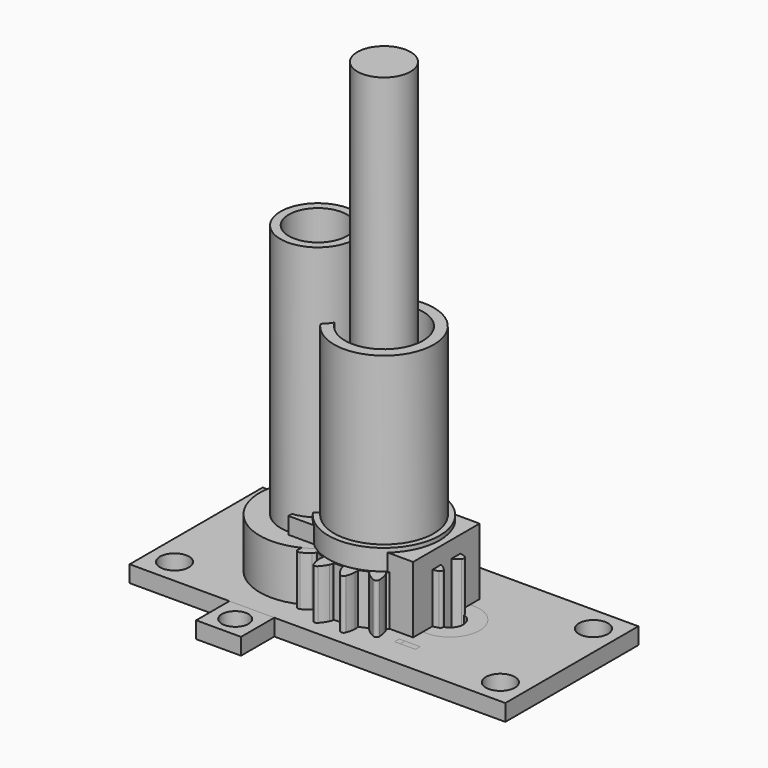
from build123d import *

# Parameters (mm, degrees)
SKETCH001_R     = 6.2
SKETCH001_R_2   = 1.6
SKETCH001_R_3   = 1.75
PAD001_DEPTH    = 2
PAD008_DEPTH    = 7
PAD005_DEPTH    = 8
SKETCH009_R     = 5
PAD006_DEPTH    = 2
SKETCH010_R     = 1.52
PAD007_DEPTH    = 3
PAD010_DEPTH    = 7
SKETCH014_W     = 15
SKETCH014_H     = 10
PAD009_DEPTH    = 10
SKETCH015_W     = 15
SKETCH015_H     = 15
PAD011_DEPTH    = 2
SKETCH019_R     = 4.7
PAD015_DEPTH    = 100
PAD012_DEPTH    = 8
SKETCH017_R     = 6.7
PAD013_DEPTH    = 2.5
SKETCH018_R     = 6
PAD014_DEPTH    = 20
PAD017_DEPTH    = 7
SKETCH_R        = 3.2
PAD_DEPTH       = 58.5
SKETCH020_R     = 5
PAD016_DEPTH    = 8
SKETCH002_R     = 3.55
SKETCH002_W     = 2.5
SKETCH002_H     = 0.7
PAD002_DEPTH    = 2
SKETCH022_R     = 7
PAD018_DEPTH    = 6
SKETCH023_R     = 4.5
PAD019_DEPTH    = 30.6
SKETCH024_R     = 3.5
POCKET_DEPTH    = 38.601
SKETCH025_R     = 1.75
POCKET001_DEPTH = 2.001
SKETCH026_R     = 3.55
SKETCH026_R_2   = 1.75
SKETCH026_W     = 2.5
SKETCH026_H     = 0.7
PAD020_DEPTH    = 2


with BuildPart() as pad001:
    # Sketch001 → Pad001 (new body)
    with BuildSketch(Plane.XY):
        Polygon((-22.6, 10), (-10.6, 10), (-10.6, 15), (-5.2, 15), (-5.2, 10), (22.6, 10), (22.6, -10), (-5.2, -10), (-5.2, -15), (-10.6, -15), (-10.6, -10), (-22.6, -10), align=None)
        with Locations((-7.95, 0)):
            Circle(SKETCH001_R, mode=Mode.SUBTRACT)
        with Locations((7.95, 0)):
            Circle(SKETCH001_R_2, mode=Mode.SUBTRACT)
        with Locations((-7.9, -12.5)):
            Circle(SKETCH001_R_2, mode=Mode.SUBTRACT)
        with Locations((-7.9, 12.5)):
            Circle(SKETCH001_R_2, mode=Mode.SUBTRACT)
        with Locations((-19.6, 7)):
            Circle(SKETCH001_R_3, mode=Mode.SUBTRACT)
        with Locations((19.6, 7)):
            Circle(SKETCH001_R_3, mode=Mode.SUBTRACT)
        with Locations((19.6, -7)):
            Circle(SKETCH001_R_3, mode=Mode.SUBTRACT)
        with Locations((-19.6, -7)):
            Circle(SKETCH001_R_3, mode=Mode.SUBTRACT)
    extrude(amount=PAD001_DEPTH)


with BuildPart() as pad008:
    # Sketch012 → Pad008 (new body)
    with BuildSketch(Plane.XY):
        with BuildLine():
            ThreePointArc((2.771281, -1.6), (0, 3.2), (-2.771281, -1.6))
            Line((-2.771281, -1.6), (2.771281, -1.6))
        make_face()
    extrude(amount=PAD008_DEPTH)


with BuildPart() as cut:
    # InvoluteGear → Pad005 (new body)
    with BuildSketch(Plane.XY):
        with BuildLine():
            add(Edge.make_bspline(
                [(8.264949, -1.328908), (7.892856, -0.98938), (7.56956, -0.801595), (7.338386, -0.698739)],
                knots=[0, 0, 0, 0, 1, 1, 1, 1], degree=3))
            add(Edge.make_bspline(
                [(7.338386, -0.698739), (7.14461, -0.613452), (7.023345, -0.589657), (6.982665, -0.583513)],
                knots=[0, 0, 0, 0, 1, 1, 1, 1], degree=3))
            Line((6.982665, -0.583513), (6.858154, -0.572405))
            ThreePointArc((6.858154, -0.572405), (6.834308, 0), (6.858154, 0.572405))
            Line((6.858154, 0.572405), (6.982665, 0.583513))
            add(Edge.make_bspline(
                [(6.982665, 0.583513), (7.023345, 0.589657), (7.14461, 0.613452), (7.338386, 0.698739)],
                knots=[0, 0, 0, 0, 1, 1, 1, 1], degree=3))
            add(Edge.make_bspline(
                [(7.338386, 0.698739), (7.56956, 0.801595), (7.892856, 0.98938), (8.264949, 1.328908)],
                knots=[0, 0, 0, 0, 1, 1, 1, 1], degree=3))
            ThreePointArc((8.264949, 1.328908), (8.388191, 1.668515), (8.144368, 1.935109))
            add(Edge.make_bspline(
                [(8.144368, 1.935109), (7.670668, 2.106397), (7.300119, 2.156168), (7.04718, 2.162728)],
                knots=[0, 0, 0, 0, 1, 1, 1, 1], degree=3))
            add(Edge.make_bspline(
                [(7.04718, 2.162728), (6.835517, 2.167368), (6.714376, 2.142945), (6.674442, 2.133054)],
                knots=[0, 0, 0, 0, 1, 1, 1, 1], degree=3))
            Line((6.674442, 2.133054), (6.555158, 2.095669))
            ThreePointArc((6.555158, 2.095669), (6.314077, 2.615376), (6.117058, 3.153335))
            Line((6.117058, 3.153335), (6.22784, 3.211246))
            add(Edge.make_bspline(
                [(6.22784, 3.211246), (6.263072, 3.23249), (6.366001, 3.30088), (6.512388, 3.453829)],
                knots=[0, 0, 0, 0, 1, 1, 1, 1], degree=3))
            add(Edge.make_bspline(
                [(6.512388, 3.453829), (6.686604, 3.637322), (6.913429, 3.934534), (7.127266, 4.39061)],
                knots=[0, 0, 0, 0, 1, 1, 1, 1], degree=3))
            ThreePointArc((7.127266, 4.39061), (7.111165, 4.751528), (6.783881, 4.904522))
            add(Edge.make_bspline(
                [(6.783881, 4.904522), (6.28069, 4.881494), (5.9193, 4.785674), (5.683105, 4.694939)],
                knots=[0, 0, 0, 0, 1, 1, 1, 1], degree=3))
            add(Edge.make_bspline(
                [(5.683105, 4.694939), (5.485778, 4.618226), (5.383205, 4.549304), (5.350096, 4.524884)],
                knots=[0, 0, 0, 0, 1, 1, 1, 1], degree=3))
            Line((5.350096, 4.524884), (5.254199, 4.444696))
            ThreePointArc((5.254199, 4.444696), (4.832586, 4.832586), (4.444696, 5.254199))
            Line((4.444696, 5.254199), (4.524884, 5.350096))
            add(Edge.make_bspline(
                [(4.524884, 5.350096), (4.549304, 5.383205), (4.618226, 5.485778), (4.694939, 5.683105)],
                knots=[0, 0, 0, 0, 1, 1, 1, 1], degree=3))
            add(Edge.make_bspline(
                [(4.694939, 5.683105), (4.785674, 5.9193), (4.881494, 6.28069), (4.904522, 6.783881)],
                knots=[0, 0, 0, 0, 1, 1, 1, 1], degree=3))
            ThreePointArc((4.904522, 6.783881), (4.751528, 7.111165), (4.39061, 7.127266))
            add(Edge.make_bspline(
                [(4.39061, 7.127266), (3.934534, 6.913429), (3.637322, 6.686604), (3.453829, 6.512388)],
                knots=[0, 0, 0, 0, 1, 1, 1, 1], degree=3))
            add(Edge.make_bspline(
                [(3.453829, 6.512388), (3.30088, 6.366001), (3.23249, 6.263072), (3.211246, 6.22784)],
                knots=[0, 0, 0, 0, 1, 1, 1, 1], degree=3))
            Line((3.211246, 6.22784), (3.153335, 6.117058))
            ThreePointArc((3.153335, 6.117058), (2.615376, 6.314077), (2.095669, 6.555158))
            Line((2.095669, 6.555158), (2.133054, 6.674442))
            add(Edge.make_bspline(
                [(2.133054, 6.674442), (2.142945, 6.714376), (2.167368, 6.835517), (2.162728, 7.04718)],
                knots=[0, 0, 0, 0, 1, 1, 1, 1], degree=3))
            add(Edge.make_bspline(
                [(2.162728, 7.04718), (2.156168, 7.300119), (2.106397, 7.670668), (1.935109, 8.144368)],
                knots=[0, 0, 0, 0, 1, 1, 1, 1], degree=3))
            ThreePointArc((1.935109, 8.144368), (1.668515, 8.388191), (1.328908, 8.264949))
            add(Edge.make_bspline(
                [(1.328908, 8.264949), (0.98938, 7.892856), (0.801595, 7.56956), (0.698739, 7.338386)],
                knots=[0, 0, 0, 0, 1, 1, 1, 1], degree=3))
            add(Edge.make_bspline(
                [(0.698739, 7.338386), (0.613452, 7.14461), (0.589657, 7.023345), (0.583513, 6.982665)],
                knots=[0, 0, 0, 0, 1, 1, 1, 1], degree=3))
            Line((0.583513, 6.982665), (0.572405, 6.858154))
            ThreePointArc((0.572405, 6.858154), (0, 6.834308), (-0.572405, 6.858154))
            Line((-0.572405, 6.858154), (-0.583513, 6.982665))
            add(Edge.make_bspline(
                [(-0.583513, 6.982665), (-0.589657, 7.023345), (-0.613452, 7.14461), (-0.698739, 7.338386)],
                knots=[0, 0, 0, 0, 1, 1, 1, 1], degree=3))
            add(Edge.make_bspline(
                [(-0.698739, 7.338386), (-0.801595, 7.56956), (-0.98938, 7.892856), (-1.328908, 8.264949)],
                knots=[0, 0, 0, 0, 1, 1, 1, 1], degree=3))
            ThreePointArc((-1.328908, 8.264949), (-1.668515, 8.388191), (-1.935109, 8.144368))
            add(Edge.make_bspline(
                [(-1.935109, 8.144368), (-2.106397, 7.670668), (-2.156168, 7.300119), (-2.162728, 7.04718)],
                knots=[0, 0, 0, 0, 1, 1, 1, 1], degree=3))
            add(Edge.make_bspline(
                [(-2.162728, 7.04718), (-2.167368, 6.835517), (-2.142945, 6.714376), (-2.133054, 6.674442)],
                knots=[0, 0, 0, 0, 1, 1, 1, 1], degree=3))
            Line((-2.133054, 6.674442), (-2.095669, 6.555158))
            ThreePointArc((-2.095669, 6.555158), (-2.615376, 6.314077), (-3.153335, 6.117058))
            Line((-3.153335, 6.117058), (-3.211246, 6.22784))
            add(Edge.make_bspline(
                [(-3.211246, 6.22784), (-3.23249, 6.263072), (-3.30088, 6.366001), (-3.453829, 6.512388)],
                knots=[0, 0, 0, 0, 1, 1, 1, 1], degree=3))
            add(Edge.make_bspline(
                [(-3.453829, 6.512388), (-3.637322, 6.686604), (-3.934534, 6.913429), (-4.39061, 7.127266)],
                knots=[0, 0, 0, 0, 1, 1, 1, 1], degree=3))
            ThreePointArc((-4.39061, 7.127266), (-4.751528, 7.111165), (-4.904522, 6.783881))
            add(Edge.make_bspline(
                [(-4.904522, 6.783881), (-4.881494, 6.28069), (-4.785674, 5.9193), (-4.694939, 5.683105)],
                knots=[0, 0, 0, 0, 1, 1, 1, 1], degree=3))
            add(Edge.make_bspline(
                [(-4.694939, 5.683105), (-4.618226, 5.485778), (-4.549304, 5.383205), (-4.524884, 5.350096)],
                knots=[0, 0, 0, 0, 1, 1, 1, 1], degree=3))
            Line((-4.524884, 5.350096), (-4.444696, 5.254199))
            ThreePointArc((-4.444696, 5.254199), (-4.832586, 4.832586), (-5.254199, 4.444696))
            Line((-5.254199, 4.444696), (-5.350096, 4.524884))
            add(Edge.make_bspline(
                [(-5.350096, 4.524884), (-5.383205, 4.549304), (-5.485778, 4.618226), (-5.683105, 4.694939)],
                knots=[0, 0, 0, 0, 1, 1, 1, 1], degree=3))
            add(Edge.make_bspline(
                [(-5.683105, 4.694939), (-5.9193, 4.785674), (-6.28069, 4.881494), (-6.783881, 4.904522)],
                knots=[0, 0, 0, 0, 1, 1, 1, 1], degree=3))
            ThreePointArc((-6.783881, 4.904522), (-7.111165, 4.751528), (-7.127266, 4.39061))
            add(Edge.make_bspline(
                [(-7.127266, 4.39061), (-6.913429, 3.934534), (-6.686604, 3.637322), (-6.512388, 3.453829)],
                knots=[0, 0, 0, 0, 1, 1, 1, 1], degree=3))
            add(Edge.make_bspline(
                [(-6.512388, 3.453829), (-6.366001, 3.30088), (-6.263072, 3.23249), (-6.22784, 3.211246)],
                knots=[0, 0, 0, 0, 1, 1, 1, 1], degree=3))
            Line((-6.22784, 3.211246), (-6.117058, 3.153335))
            ThreePointArc((-6.117058, 3.153335), (-6.314077, 2.615376), (-6.555158, 2.095669))
            Line((-6.555158, 2.095669), (-6.674442, 2.133054))
            add(Edge.make_bspline(
                [(-6.674442, 2.133054), (-6.714376, 2.142945), (-6.835517, 2.167368), (-7.04718, 2.162728)],
                knots=[0, 0, 0, 0, 1, 1, 1, 1], degree=3))
            add(Edge.make_bspline(
                [(-7.04718, 2.162728), (-7.300119, 2.156168), (-7.670668, 2.106397), (-8.144368, 1.935109)],
                knots=[0, 0, 0, 0, 1, 1, 1, 1], degree=3))
            ThreePointArc((-8.144368, 1.935109), (-8.388191, 1.668515), (-8.264949, 1.328908))
            add(Edge.make_bspline(
                [(-8.264949, 1.328908), (-7.892856, 0.98938), (-7.56956, 0.801595), (-7.338386, 0.698739)],
                knots=[0, 0, 0, 0, 1, 1, 1, 1], degree=3))
            add(Edge.make_bspline(
                [(-7.338386, 0.698739), (-7.14461, 0.613452), (-7.023345, 0.589657), (-6.982665, 0.583513)],
                knots=[0, 0, 0, 0, 1, 1, 1, 1], degree=3))
            Line((-6.982665, 0.583513), (-6.858154, 0.572405))
            ThreePointArc((-6.858154, 0.572405), (-6.834308, 0), (-6.858154, -0.572405))
            Line((-6.858154, -0.572405), (-6.982665, -0.583513))
            add(Edge.make_bspline(
                [(-6.982665, -0.583513), (-7.023345, -0.589657), (-7.14461, -0.613452), (-7.338386, -0.698739)],
                knots=[0, 0, 0, 0, 1, 1, 1, 1], degree=3))
            add(Edge.make_bspline(
                [(-7.338386, -0.698739), (-7.56956, -0.801595), (-7.892856, -0.98938), (-8.264949, -1.328908)],
                knots=[0, 0, 0, 0, 1, 1, 1, 1], degree=3))
            ThreePointArc((-8.264949, -1.328908), (-8.388191, -1.668515), (-8.144368, -1.935109))
            add(Edge.make_bspline(
                [(-8.144368, -1.935109), (-7.670668, -2.106397), (-7.300119, -2.156168), (-7.04718, -2.162728)],
                knots=[0, 0, 0, 0, 1, 1, 1, 1], degree=3))
            add(Edge.make_bspline(
                [(-7.04718, -2.162728), (-6.835517, -2.167368), (-6.714376, -2.142945), (-6.674442, -2.133054)],
                knots=[0, 0, 0, 0, 1, 1, 1, 1], degree=3))
            Line((-6.674442, -2.133054), (-6.555158, -2.095669))
            ThreePointArc((-6.555158, -2.095669), (-6.314077, -2.615376), (-6.117058, -3.153335))
            Line((-6.117058, -3.153335), (-6.22784, -3.211246))
            add(Edge.make_bspline(
                [(-6.22784, -3.211246), (-6.263072, -3.23249), (-6.366001, -3.30088), (-6.512388, -3.453829)],
                knots=[0, 0, 0, 0, 1, 1, 1, 1], degree=3))
            add(Edge.make_bspline(
                [(-6.512388, -3.453829), (-6.686604, -3.637322), (-6.913429, -3.934534), (-7.127266, -4.39061)],
                knots=[0, 0, 0, 0, 1, 1, 1, 1], degree=3))
            ThreePointArc((-7.127266, -4.39061), (-7.111165, -4.751528), (-6.783881, -4.904522))
            add(Edge.make_bspline(
                [(-6.783881, -4.904522), (-6.28069, -4.881494), (-5.9193, -4.785674), (-5.683105, -4.694939)],
                knots=[0, 0, 0, 0, 1, 1, 1, 1], degree=3))
            add(Edge.make_bspline(
                [(-5.683105, -4.694939), (-5.485778, -4.618226), (-5.383205, -4.549304), (-5.350096, -4.524884)],
                knots=[0, 0, 0, 0, 1, 1, 1, 1], degree=3))
            Line((-5.350096, -4.524884), (-5.254199, -4.444696))
            ThreePointArc((-5.254199, -4.444696), (-4.832586, -4.832586), (-4.444696, -5.254199))
            Line((-4.444696, -5.254199), (-4.524884, -5.350096))
            add(Edge.make_bspline(
                [(-4.524884, -5.350096), (-4.549304, -5.383205), (-4.618226, -5.485778), (-4.694939, -5.683105)],
                knots=[0, 0, 0, 0, 1, 1, 1, 1], degree=3))
            add(Edge.make_bspline(
                [(-4.694939, -5.683105), (-4.785674, -5.9193), (-4.881494, -6.28069), (-4.904522, -6.783881)],
                knots=[0, 0, 0, 0, 1, 1, 1, 1], degree=3))
            ThreePointArc((-4.904522, -6.783881), (-4.751528, -7.111165), (-4.39061, -7.127266))
            add(Edge.make_bspline(
                [(-4.39061, -7.127266), (-3.934534, -6.913429), (-3.637322, -6.686604), (-3.453829, -6.512388)],
                knots=[0, 0, 0, 0, 1, 1, 1, 1], degree=3))
            add(Edge.make_bspline(
                [(-3.453829, -6.512388), (-3.30088, -6.366001), (-3.23249, -6.263072), (-3.211246, -6.22784)],
                knots=[0, 0, 0, 0, 1, 1, 1, 1], degree=3))
            Line((-3.211246, -6.22784), (-3.153335, -6.117058))
            ThreePointArc((-3.153335, -6.117058), (-2.615376, -6.314077), (-2.095669, -6.555158))
            Line((-2.095669, -6.555158), (-2.133054, -6.674442))
            add(Edge.make_bspline(
                [(-2.133054, -6.674442), (-2.142945, -6.714376), (-2.167368, -6.835517), (-2.162728, -7.04718)],
                knots=[0, 0, 0, 0, 1, 1, 1, 1], degree=3))
            add(Edge.make_bspline(
                [(-2.162728, -7.04718), (-2.156168, -7.300119), (-2.106397, -7.670668), (-1.935109, -8.144368)],
                knots=[0, 0, 0, 0, 1, 1, 1, 1], degree=3))
            ThreePointArc((-1.935109, -8.144368), (-1.668515, -8.388191), (-1.328908, -8.264949))
            add(Edge.make_bspline(
                [(-1.328908, -8.264949), (-0.98938, -7.892856), (-0.801595, -7.56956), (-0.698739, -7.338386)],
                knots=[0, 0, 0, 0, 1, 1, 1, 1], degree=3))
            add(Edge.make_bspline(
                [(-0.698739, -7.338386), (-0.613452, -7.14461), (-0.589657, -7.023345), (-0.583513, -6.982665)],
                knots=[0, 0, 0, 0, 1, 1, 1, 1], degree=3))
            Line((-0.583513, -6.982665), (-0.572405, -6.858154))
            ThreePointArc((-0.572405, -6.858154), (0, -6.834308), (0.572405, -6.858154))
            Line((0.572405, -6.858154), (0.583513, -6.982665))
            add(Edge.make_bspline(
                [(0.583513, -6.982665), (0.589657, -7.023345), (0.613452, -7.14461), (0.698739, -7.338386)],
                knots=[0, 0, 0, 0, 1, 1, 1, 1], degree=3))
            add(Edge.make_bspline(
                [(0.698739, -7.338386), (0.801595, -7.56956), (0.98938, -7.892856), (1.328908, -8.264949)],
                knots=[0, 0, 0, 0, 1, 1, 1, 1], degree=3))
            ThreePointArc((1.328908, -8.264949), (1.668515, -8.388191), (1.935109, -8.144368))
            add(Edge.make_bspline(
                [(1.935109, -8.144368), (2.106397, -7.670668), (2.156168, -7.300119), (2.162728, -7.04718)],
                knots=[0, 0, 0, 0, 1, 1, 1, 1], degree=3))
            add(Edge.make_bspline(
                [(2.162728, -7.04718), (2.167368, -6.835517), (2.142945, -6.714376), (2.133054, -6.674442)],
                knots=[0, 0, 0, 0, 1, 1, 1, 1], degree=3))
            Line((2.133054, -6.674442), (2.095669, -6.555158))
            ThreePointArc((2.095669, -6.555158), (2.615376, -6.314077), (3.153335, -6.117058))
            Line((3.153335, -6.117058), (3.211246, -6.22784))
            add(Edge.make_bspline(
                [(3.211246, -6.22784), (3.23249, -6.263072), (3.30088, -6.366001), (3.453829, -6.512388)],
                knots=[0, 0, 0, 0, 1, 1, 1, 1], degree=3))
            add(Edge.make_bspline(
                [(3.453829, -6.512388), (3.637322, -6.686604), (3.934534, -6.913429), (4.39061, -7.127266)],
                knots=[0, 0, 0, 0, 1, 1, 1, 1], degree=3))
            ThreePointArc((4.39061, -7.127266), (4.751528, -7.111165), (4.904522, -6.783881))
            add(Edge.make_bspline(
                [(4.904522, -6.783881), (4.881494, -6.28069), (4.785674, -5.9193), (4.694939, -5.683105)],
                knots=[0, 0, 0, 0, 1, 1, 1, 1], degree=3))
            add(Edge.make_bspline(
                [(4.694939, -5.683105), (4.618226, -5.485778), (4.549304, -5.383205), (4.524884, -5.350096)],
                knots=[0, 0, 0, 0, 1, 1, 1, 1], degree=3))
            Line((4.524884, -5.350096), (4.444696, -5.254199))
            ThreePointArc((4.444696, -5.254199), (4.832586, -4.832586), (5.254199, -4.444696))
            Line((5.254199, -4.444696), (5.350096, -4.524884))
            add(Edge.make_bspline(
                [(5.350096, -4.524884), (5.383205, -4.549304), (5.485778, -4.618226), (5.683105, -4.694939)],
                knots=[0, 0, 0, 0, 1, 1, 1, 1], degree=3))
            add(Edge.make_bspline(
                [(5.683105, -4.694939), (5.9193, -4.785674), (6.28069, -4.881494), (6.783881, -4.904522)],
                knots=[0, 0, 0, 0, 1, 1, 1, 1], degree=3))
            ThreePointArc((6.783881, -4.904522), (7.111165, -4.751528), (7.127266, -4.39061))
            add(Edge.make_bspline(
                [(7.127266, -4.39061), (6.913429, -3.934534), (6.686604, -3.637322), (6.512388, -3.453829)],
                knots=[0, 0, 0, 0, 1, 1, 1, 1], degree=3))
            add(Edge.make_bspline(
                [(6.512388, -3.453829), (6.366001, -3.30088), (6.263072, -3.23249), (6.22784, -3.211246)],
                knots=[0, 0, 0, 0, 1, 1, 1, 1], degree=3))
            Line((6.22784, -3.211246), (6.117058, -3.153335))
            ThreePointArc((6.117058, -3.153335), (6.314077, -2.615376), (6.555158, -2.095669))
            Line((6.555158, -2.095669), (6.674442, -2.133054))
            add(Edge.make_bspline(
                [(6.674442, -2.133054), (6.714376, -2.142945), (6.835517, -2.167368), (7.04718, -2.162728)],
                knots=[0, 0, 0, 0, 1, 1, 1, 1], degree=3))
            add(Edge.make_bspline(
                [(7.04718, -2.162728), (7.300119, -2.156168), (7.670668, -2.106397), (8.144368, -1.935109)],
                knots=[0, 0, 0, 0, 1, 1, 1, 1], degree=3))
            ThreePointArc((8.144368, -1.935109), (8.388191, -1.668515), (8.264949, -1.328908))
        make_face()
    extrude(amount=PAD005_DEPTH)

    # Sketch009 → Pad006 (new body)
    with BuildSketch(Plane.XY.offset(8)):
        Circle(SKETCH009_R)
    extrude(amount=PAD006_DEPTH)

    # Sketch010 → Pad007 (new body)
    with BuildSketch(Plane.XY.offset(10)):
        Circle(SKETCH010_R)
    extrude(amount=PAD007_DEPTH)

    # Cut: cut Pad008
    add(pad008.part, mode=Mode.SUBTRACT)


with BuildPart() as pad010:
    # Sketch013 → Pad010 (new body)
    with BuildSketch(Plane.XY):
        with BuildLine():
            ThreePointArc((2.55, -1.933261), (0, 3.2), (-2.55, -1.933261))
            Line((-2.55, -1.933261), (2.55, -1.933261))
        make_face()
    extrude(amount=PAD010_DEPTH)


with BuildPart() as cut001:
    # Sketch014 → Pad009 (new body)
    with BuildSketch(Plane.XY):
        Rectangle(SKETCH014_W, SKETCH014_H)
    extrude(amount=PAD009_DEPTH)

    # Cut001: cut Pad010
    add(pad010.part, mode=Mode.SUBTRACT)


with BuildPart() as pad011:
    # Sketch015 → Pad011 (new body)
    with BuildSketch(Plane.XY):
        with Locations((-0.141556, -0.111143)):
            Rectangle(SKETCH015_W, SKETCH015_H)
        with BuildLine():
            ThreePointArc((2.771281, -1.6), (0, 3.2), (-2.771281, -1.6))
            Line((-2.771281, -1.6), (2.771281, -1.6))
        make_face(mode=Mode.SUBTRACT)
    extrude(amount=PAD011_DEPTH)


with BuildPart() as pad015:
    # Sketch019 → Pad015 (new body)
    with BuildSketch(Plane.XY):
        Circle(SKETCH019_R)
    extrude(amount=PAD015_DEPTH)


with BuildPart() as cut002:
    # InvoluteGear001 → Pad012 (new body)
    with BuildSketch(Plane.XY):
        with BuildLine():
            add(Edge.make_bspline(
                [(8.264949, -1.328908), (7.892856, -0.98938), (7.56956, -0.801595), (7.338386, -0.698739)],
                knots=[0, 0, 0, 0, 1, 1, 1, 1], degree=3))
            add(Edge.make_bspline(
                [(7.338386, -0.698739), (7.14461, -0.613452), (7.023345, -0.589657), (6.982665, -0.583513)],
                knots=[0, 0, 0, 0, 1, 1, 1, 1], degree=3))
            Line((6.982665, -0.583513), (6.858154, -0.572405))
            ThreePointArc((6.858154, -0.572405), (6.834308, 0), (6.858154, 0.572405))
            Line((6.858154, 0.572405), (6.982665, 0.583513))
            add(Edge.make_bspline(
                [(6.982665, 0.583513), (7.023345, 0.589657), (7.14461, 0.613452), (7.338386, 0.698739)],
                knots=[0, 0, 0, 0, 1, 1, 1, 1], degree=3))
            add(Edge.make_bspline(
                [(7.338386, 0.698739), (7.56956, 0.801595), (7.892856, 0.98938), (8.264949, 1.328908)],
                knots=[0, 0, 0, 0, 1, 1, 1, 1], degree=3))
            ThreePointArc((8.264949, 1.328908), (8.388191, 1.668515), (8.144368, 1.935109))
            add(Edge.make_bspline(
                [(8.144368, 1.935109), (7.670668, 2.106397), (7.300119, 2.156168), (7.04718, 2.162728)],
                knots=[0, 0, 0, 0, 1, 1, 1, 1], degree=3))
            add(Edge.make_bspline(
                [(7.04718, 2.162728), (6.835517, 2.167368), (6.714376, 2.142945), (6.674442, 2.133054)],
                knots=[0, 0, 0, 0, 1, 1, 1, 1], degree=3))
            Line((6.674442, 2.133054), (6.555158, 2.095669))
            ThreePointArc((6.555158, 2.095669), (6.314077, 2.615376), (6.117058, 3.153335))
            Line((6.117058, 3.153335), (6.22784, 3.211246))
            add(Edge.make_bspline(
                [(6.22784, 3.211246), (6.263072, 3.23249), (6.366001, 3.30088), (6.512388, 3.453829)],
                knots=[0, 0, 0, 0, 1, 1, 1, 1], degree=3))
            add(Edge.make_bspline(
                [(6.512388, 3.453829), (6.686604, 3.637322), (6.913429, 3.934534), (7.127266, 4.39061)],
                knots=[0, 0, 0, 0, 1, 1, 1, 1], degree=3))
            ThreePointArc((7.127266, 4.39061), (7.111165, 4.751528), (6.783881, 4.904522))
            add(Edge.make_bspline(
                [(6.783881, 4.904522), (6.28069, 4.881494), (5.9193, 4.785674), (5.683105, 4.694939)],
                knots=[0, 0, 0, 0, 1, 1, 1, 1], degree=3))
            add(Edge.make_bspline(
                [(5.683105, 4.694939), (5.485778, 4.618226), (5.383205, 4.549304), (5.350096, 4.524884)],
                knots=[0, 0, 0, 0, 1, 1, 1, 1], degree=3))
            Line((5.350096, 4.524884), (5.254199, 4.444696))
            ThreePointArc((5.254199, 4.444696), (4.832586, 4.832586), (4.444696, 5.254199))
            Line((4.444696, 5.254199), (4.524884, 5.350096))
            add(Edge.make_bspline(
                [(4.524884, 5.350096), (4.549304, 5.383205), (4.618226, 5.485778), (4.694939, 5.683105)],
                knots=[0, 0, 0, 0, 1, 1, 1, 1], degree=3))
            add(Edge.make_bspline(
                [(4.694939, 5.683105), (4.785674, 5.9193), (4.881494, 6.28069), (4.904522, 6.783881)],
                knots=[0, 0, 0, 0, 1, 1, 1, 1], degree=3))
            ThreePointArc((4.904522, 6.783881), (4.751528, 7.111165), (4.39061, 7.127266))
            add(Edge.make_bspline(
                [(4.39061, 7.127266), (3.934534, 6.913429), (3.637322, 6.686604), (3.453829, 6.512388)],
                knots=[0, 0, 0, 0, 1, 1, 1, 1], degree=3))
            add(Edge.make_bspline(
                [(3.453829, 6.512388), (3.30088, 6.366001), (3.23249, 6.263072), (3.211246, 6.22784)],
                knots=[0, 0, 0, 0, 1, 1, 1, 1], degree=3))
            Line((3.211246, 6.22784), (3.153335, 6.117058))
            ThreePointArc((3.153335, 6.117058), (2.615376, 6.314077), (2.095669, 6.555158))
            Line((2.095669, 6.555158), (2.133054, 6.674442))
            add(Edge.make_bspline(
                [(2.133054, 6.674442), (2.142945, 6.714376), (2.167368, 6.835517), (2.162728, 7.04718)],
                knots=[0, 0, 0, 0, 1, 1, 1, 1], degree=3))
            add(Edge.make_bspline(
                [(2.162728, 7.04718), (2.156168, 7.300119), (2.106397, 7.670668), (1.935109, 8.144368)],
                knots=[0, 0, 0, 0, 1, 1, 1, 1], degree=3))
            ThreePointArc((1.935109, 8.144368), (1.668515, 8.388191), (1.328908, 8.264949))
            add(Edge.make_bspline(
                [(1.328908, 8.264949), (0.98938, 7.892856), (0.801595, 7.56956), (0.698739, 7.338386)],
                knots=[0, 0, 0, 0, 1, 1, 1, 1], degree=3))
            add(Edge.make_bspline(
                [(0.698739, 7.338386), (0.613452, 7.14461), (0.589657, 7.023345), (0.583513, 6.982665)],
                knots=[0, 0, 0, 0, 1, 1, 1, 1], degree=3))
            Line((0.583513, 6.982665), (0.572405, 6.858154))
            ThreePointArc((0.572405, 6.858154), (0, 6.834308), (-0.572405, 6.858154))
            Line((-0.572405, 6.858154), (-0.583513, 6.982665))
            add(Edge.make_bspline(
                [(-0.583513, 6.982665), (-0.589657, 7.023345), (-0.613452, 7.14461), (-0.698739, 7.338386)],
                knots=[0, 0, 0, 0, 1, 1, 1, 1], degree=3))
            add(Edge.make_bspline(
                [(-0.698739, 7.338386), (-0.801595, 7.56956), (-0.98938, 7.892856), (-1.328908, 8.264949)],
                knots=[0, 0, 0, 0, 1, 1, 1, 1], degree=3))
            ThreePointArc((-1.328908, 8.264949), (-1.668515, 8.388191), (-1.935109, 8.144368))
            add(Edge.make_bspline(
                [(-1.935109, 8.144368), (-2.106397, 7.670668), (-2.156168, 7.300119), (-2.162728, 7.04718)],
                knots=[0, 0, 0, 0, 1, 1, 1, 1], degree=3))
            add(Edge.make_bspline(
                [(-2.162728, 7.04718), (-2.167368, 6.835517), (-2.142945, 6.714376), (-2.133054, 6.674442)],
                knots=[0, 0, 0, 0, 1, 1, 1, 1], degree=3))
            Line((-2.133054, 6.674442), (-2.095669, 6.555158))
            ThreePointArc((-2.095669, 6.555158), (-2.615376, 6.314077), (-3.153335, 6.117058))
            Line((-3.153335, 6.117058), (-3.211246, 6.22784))
            add(Edge.make_bspline(
                [(-3.211246, 6.22784), (-3.23249, 6.263072), (-3.30088, 6.366001), (-3.453829, 6.512388)],
                knots=[0, 0, 0, 0, 1, 1, 1, 1], degree=3))
            add(Edge.make_bspline(
                [(-3.453829, 6.512388), (-3.637322, 6.686604), (-3.934534, 6.913429), (-4.39061, 7.127266)],
                knots=[0, 0, 0, 0, 1, 1, 1, 1], degree=3))
            ThreePointArc((-4.39061, 7.127266), (-4.751528, 7.111165), (-4.904522, 6.783881))
            add(Edge.make_bspline(
                [(-4.904522, 6.783881), (-4.881494, 6.28069), (-4.785674, 5.9193), (-4.694939, 5.683105)],
                knots=[0, 0, 0, 0, 1, 1, 1, 1], degree=3))
            add(Edge.make_bspline(
                [(-4.694939, 5.683105), (-4.618226, 5.485778), (-4.549304, 5.383205), (-4.524884, 5.350096)],
                knots=[0, 0, 0, 0, 1, 1, 1, 1], degree=3))
            Line((-4.524884, 5.350096), (-4.444696, 5.254199))
            ThreePointArc((-4.444696, 5.254199), (-4.832586, 4.832586), (-5.254199, 4.444696))
            Line((-5.254199, 4.444696), (-5.350096, 4.524884))
            add(Edge.make_bspline(
                [(-5.350096, 4.524884), (-5.383205, 4.549304), (-5.485778, 4.618226), (-5.683105, 4.694939)],
                knots=[0, 0, 0, 0, 1, 1, 1, 1], degree=3))
            add(Edge.make_bspline(
                [(-5.683105, 4.694939), (-5.9193, 4.785674), (-6.28069, 4.881494), (-6.783881, 4.904522)],
                knots=[0, 0, 0, 0, 1, 1, 1, 1], degree=3))
            ThreePointArc((-6.783881, 4.904522), (-7.111165, 4.751528), (-7.127266, 4.39061))
            add(Edge.make_bspline(
                [(-7.127266, 4.39061), (-6.913429, 3.934534), (-6.686604, 3.637322), (-6.512388, 3.453829)],
                knots=[0, 0, 0, 0, 1, 1, 1, 1], degree=3))
            add(Edge.make_bspline(
                [(-6.512388, 3.453829), (-6.366001, 3.30088), (-6.263072, 3.23249), (-6.22784, 3.211246)],
                knots=[0, 0, 0, 0, 1, 1, 1, 1], degree=3))
            Line((-6.22784, 3.211246), (-6.117058, 3.153335))
            ThreePointArc((-6.117058, 3.153335), (-6.314077, 2.615376), (-6.555158, 2.095669))
            Line((-6.555158, 2.095669), (-6.674442, 2.133054))
            add(Edge.make_bspline(
                [(-6.674442, 2.133054), (-6.714376, 2.142945), (-6.835517, 2.167368), (-7.04718, 2.162728)],
                knots=[0, 0, 0, 0, 1, 1, 1, 1], degree=3))
            add(Edge.make_bspline(
                [(-7.04718, 2.162728), (-7.300119, 2.156168), (-7.670668, 2.106397), (-8.144368, 1.935109)],
                knots=[0, 0, 0, 0, 1, 1, 1, 1], degree=3))
            ThreePointArc((-8.144368, 1.935109), (-8.388191, 1.668515), (-8.264949, 1.328908))
            add(Edge.make_bspline(
                [(-8.264949, 1.328908), (-7.892856, 0.98938), (-7.56956, 0.801595), (-7.338386, 0.698739)],
                knots=[0, 0, 0, 0, 1, 1, 1, 1], degree=3))
            add(Edge.make_bspline(
                [(-7.338386, 0.698739), (-7.14461, 0.613452), (-7.023345, 0.589657), (-6.982665, 0.583513)],
                knots=[0, 0, 0, 0, 1, 1, 1, 1], degree=3))
            Line((-6.982665, 0.583513), (-6.858154, 0.572405))
            ThreePointArc((-6.858154, 0.572405), (-6.834308, 0), (-6.858154, -0.572405))
            Line((-6.858154, -0.572405), (-6.982665, -0.583513))
            add(Edge.make_bspline(
                [(-6.982665, -0.583513), (-7.023345, -0.589657), (-7.14461, -0.613452), (-7.338386, -0.698739)],
                knots=[0, 0, 0, 0, 1, 1, 1, 1], degree=3))
            add(Edge.make_bspline(
                [(-7.338386, -0.698739), (-7.56956, -0.801595), (-7.892856, -0.98938), (-8.264949, -1.328908)],
                knots=[0, 0, 0, 0, 1, 1, 1, 1], degree=3))
            ThreePointArc((-8.264949, -1.328908), (-8.388191, -1.668515), (-8.144368, -1.935109))
            add(Edge.make_bspline(
                [(-8.144368, -1.935109), (-7.670668, -2.106397), (-7.300119, -2.156168), (-7.04718, -2.162728)],
                knots=[0, 0, 0, 0, 1, 1, 1, 1], degree=3))
            add(Edge.make_bspline(
                [(-7.04718, -2.162728), (-6.835517, -2.167368), (-6.714376, -2.142945), (-6.674442, -2.133054)],
                knots=[0, 0, 0, 0, 1, 1, 1, 1], degree=3))
            Line((-6.674442, -2.133054), (-6.555158, -2.095669))
            ThreePointArc((-6.555158, -2.095669), (-6.314077, -2.615376), (-6.117058, -3.153335))
            Line((-6.117058, -3.153335), (-6.22784, -3.211246))
            add(Edge.make_bspline(
                [(-6.22784, -3.211246), (-6.263072, -3.23249), (-6.366001, -3.30088), (-6.512388, -3.453829)],
                knots=[0, 0, 0, 0, 1, 1, 1, 1], degree=3))
            add(Edge.make_bspline(
                [(-6.512388, -3.453829), (-6.686604, -3.637322), (-6.913429, -3.934534), (-7.127266, -4.39061)],
                knots=[0, 0, 0, 0, 1, 1, 1, 1], degree=3))
            ThreePointArc((-7.127266, -4.39061), (-7.111165, -4.751528), (-6.783881, -4.904522))
            add(Edge.make_bspline(
                [(-6.783881, -4.904522), (-6.28069, -4.881494), (-5.9193, -4.785674), (-5.683105, -4.694939)],
                knots=[0, 0, 0, 0, 1, 1, 1, 1], degree=3))
            add(Edge.make_bspline(
                [(-5.683105, -4.694939), (-5.485778, -4.618226), (-5.383205, -4.549304), (-5.350096, -4.524884)],
                knots=[0, 0, 0, 0, 1, 1, 1, 1], degree=3))
            Line((-5.350096, -4.524884), (-5.254199, -4.444696))
            ThreePointArc((-5.254199, -4.444696), (-4.832586, -4.832586), (-4.444696, -5.254199))
            Line((-4.444696, -5.254199), (-4.524884, -5.350096))
            add(Edge.make_bspline(
                [(-4.524884, -5.350096), (-4.549304, -5.383205), (-4.618226, -5.485778), (-4.694939, -5.683105)],
                knots=[0, 0, 0, 0, 1, 1, 1, 1], degree=3))
            add(Edge.make_bspline(
                [(-4.694939, -5.683105), (-4.785674, -5.9193), (-4.881494, -6.28069), (-4.904522, -6.783881)],
                knots=[0, 0, 0, 0, 1, 1, 1, 1], degree=3))
            ThreePointArc((-4.904522, -6.783881), (-4.751528, -7.111165), (-4.39061, -7.127266))
            add(Edge.make_bspline(
                [(-4.39061, -7.127266), (-3.934534, -6.913429), (-3.637322, -6.686604), (-3.453829, -6.512388)],
                knots=[0, 0, 0, 0, 1, 1, 1, 1], degree=3))
            add(Edge.make_bspline(
                [(-3.453829, -6.512388), (-3.30088, -6.366001), (-3.23249, -6.263072), (-3.211246, -6.22784)],
                knots=[0, 0, 0, 0, 1, 1, 1, 1], degree=3))
            Line((-3.211246, -6.22784), (-3.153335, -6.117058))
            ThreePointArc((-3.153335, -6.117058), (-2.615376, -6.314077), (-2.095669, -6.555158))
            Line((-2.095669, -6.555158), (-2.133054, -6.674442))
            add(Edge.make_bspline(
                [(-2.133054, -6.674442), (-2.142945, -6.714376), (-2.167368, -6.835517), (-2.162728, -7.04718)],
                knots=[0, 0, 0, 0, 1, 1, 1, 1], degree=3))
            add(Edge.make_bspline(
                [(-2.162728, -7.04718), (-2.156168, -7.300119), (-2.106397, -7.670668), (-1.935109, -8.144368)],
                knots=[0, 0, 0, 0, 1, 1, 1, 1], degree=3))
            ThreePointArc((-1.935109, -8.144368), (-1.668515, -8.388191), (-1.328908, -8.264949))
            add(Edge.make_bspline(
                [(-1.328908, -8.264949), (-0.98938, -7.892856), (-0.801595, -7.56956), (-0.698739, -7.338386)],
                knots=[0, 0, 0, 0, 1, 1, 1, 1], degree=3))
            add(Edge.make_bspline(
                [(-0.698739, -7.338386), (-0.613452, -7.14461), (-0.589657, -7.023345), (-0.583513, -6.982665)],
                knots=[0, 0, 0, 0, 1, 1, 1, 1], degree=3))
            Line((-0.583513, -6.982665), (-0.572405, -6.858154))
            ThreePointArc((-0.572405, -6.858154), (0, -6.834308), (0.572405, -6.858154))
            Line((0.572405, -6.858154), (0.583513, -6.982665))
            add(Edge.make_bspline(
                [(0.583513, -6.982665), (0.589657, -7.023345), (0.613452, -7.14461), (0.698739, -7.338386)],
                knots=[0, 0, 0, 0, 1, 1, 1, 1], degree=3))
            add(Edge.make_bspline(
                [(0.698739, -7.338386), (0.801595, -7.56956), (0.98938, -7.892856), (1.328908, -8.264949)],
                knots=[0, 0, 0, 0, 1, 1, 1, 1], degree=3))
            ThreePointArc((1.328908, -8.264949), (1.668515, -8.388191), (1.935109, -8.144368))
            add(Edge.make_bspline(
                [(1.935109, -8.144368), (2.106397, -7.670668), (2.156168, -7.300119), (2.162728, -7.04718)],
                knots=[0, 0, 0, 0, 1, 1, 1, 1], degree=3))
            add(Edge.make_bspline(
                [(2.162728, -7.04718), (2.167368, -6.835517), (2.142945, -6.714376), (2.133054, -6.674442)],
                knots=[0, 0, 0, 0, 1, 1, 1, 1], degree=3))
            Line((2.133054, -6.674442), (2.095669, -6.555158))
            ThreePointArc((2.095669, -6.555158), (2.615376, -6.314077), (3.153335, -6.117058))
            Line((3.153335, -6.117058), (3.211246, -6.22784))
            add(Edge.make_bspline(
                [(3.211246, -6.22784), (3.23249, -6.263072), (3.30088, -6.366001), (3.453829, -6.512388)],
                knots=[0, 0, 0, 0, 1, 1, 1, 1], degree=3))
            add(Edge.make_bspline(
                [(3.453829, -6.512388), (3.637322, -6.686604), (3.934534, -6.913429), (4.39061, -7.127266)],
                knots=[0, 0, 0, 0, 1, 1, 1, 1], degree=3))
            ThreePointArc((4.39061, -7.127266), (4.751528, -7.111165), (4.904522, -6.783881))
            add(Edge.make_bspline(
                [(4.904522, -6.783881), (4.881494, -6.28069), (4.785674, -5.9193), (4.694939, -5.683105)],
                knots=[0, 0, 0, 0, 1, 1, 1, 1], degree=3))
            add(Edge.make_bspline(
                [(4.694939, -5.683105), (4.618226, -5.485778), (4.549304, -5.383205), (4.524884, -5.350096)],
                knots=[0, 0, 0, 0, 1, 1, 1, 1], degree=3))
            Line((4.524884, -5.350096), (4.444696, -5.254199))
            ThreePointArc((4.444696, -5.254199), (4.832586, -4.832586), (5.254199, -4.444696))
            Line((5.254199, -4.444696), (5.350096, -4.524884))
            add(Edge.make_bspline(
                [(5.350096, -4.524884), (5.383205, -4.549304), (5.485778, -4.618226), (5.683105, -4.694939)],
                knots=[0, 0, 0, 0, 1, 1, 1, 1], degree=3))
            add(Edge.make_bspline(
                [(5.683105, -4.694939), (5.9193, -4.785674), (6.28069, -4.881494), (6.783881, -4.904522)],
                knots=[0, 0, 0, 0, 1, 1, 1, 1], degree=3))
            ThreePointArc((6.783881, -4.904522), (7.111165, -4.751528), (7.127266, -4.39061))
            add(Edge.make_bspline(
                [(7.127266, -4.39061), (6.913429, -3.934534), (6.686604, -3.637322), (6.512388, -3.453829)],
                knots=[0, 0, 0, 0, 1, 1, 1, 1], degree=3))
            add(Edge.make_bspline(
                [(6.512388, -3.453829), (6.366001, -3.30088), (6.263072, -3.23249), (6.22784, -3.211246)],
                knots=[0, 0, 0, 0, 1, 1, 1, 1], degree=3))
            Line((6.22784, -3.211246), (6.117058, -3.153335))
            ThreePointArc((6.117058, -3.153335), (6.314077, -2.615376), (6.555158, -2.095669))
            Line((6.555158, -2.095669), (6.674442, -2.133054))
            add(Edge.make_bspline(
                [(6.674442, -2.133054), (6.714376, -2.142945), (6.835517, -2.167368), (7.04718, -2.162728)],
                knots=[0, 0, 0, 0, 1, 1, 1, 1], degree=3))
            add(Edge.make_bspline(
                [(7.04718, -2.162728), (7.300119, -2.156168), (7.670668, -2.106397), (8.144368, -1.935109)],
                knots=[0, 0, 0, 0, 1, 1, 1, 1], degree=3))
            ThreePointArc((8.144368, -1.935109), (8.388191, -1.668515), (8.264949, -1.328908))
        make_face()
    extrude(amount=PAD012_DEPTH)

    # Sketch017 → Pad013 (new body)
    with BuildSketch(Plane.XY.offset(8)):
        Circle(SKETCH017_R)
    extrude(amount=PAD013_DEPTH)

    # Sketch018 → Pad014 (new body)
    with BuildSketch(Plane.XY.offset(10.5)):
        Circle(SKETCH018_R)
    extrude(amount=PAD014_DEPTH)

    # Cut002: cut Pad015
    add(pad015.part, mode=Mode.SUBTRACT)


with BuildPart() as pad017:
    # Sketch021 → Pad017 (new body)
    with BuildSketch(Plane.XY):
        with BuildLine():
            ThreePointArc((2.771281, -1.6), (0, 3.2), (-2.771281, -1.6))
            Line((-2.771281, -1.6), (2.771281, -1.6))
        make_face()
    extrude(amount=PAD017_DEPTH)


with BuildPart() as pad:
    # Sketch → Pad (new body)
    with BuildSketch(Plane.XY):
        Circle(SKETCH_R)
    extrude(amount=PAD_DEPTH)


with BuildPart() as cut003:
    # Sketch020 → Pad016 (new body)
    with BuildSketch(Plane.XY):
        Circle(SKETCH020_R)
    extrude(amount=PAD016_DEPTH)

    # Fusion: union Pad
    add(pad.part)

    # Cut003: cut Pad017
    add(pad017.part, mode=Mode.SUBTRACT)


with BuildPart() as pocket001:
    # Sketch002 → Pad002 (new body)
    with BuildSketch(Plane.XY):
        Polygon((-22.6, 10), (-10.6, 10), (22.6, 10), (22.6, -10), (-10.6, -10), (-22.6, -10), align=None)
        with Locations((7.95, 0)):
            Circle(SKETCH002_R, mode=Mode.SUBTRACT)
        with Locations((7.925, -6.4)):
            Rectangle(SKETCH002_W, SKETCH002_H, mode=Mode.SUBTRACT)
    extrude(amount=PAD002_DEPTH)

    # Sketch022 → Pad018 (new body)
    with BuildSketch(Plane.XY.offset(2)):
        with Locations((-7.95, 0)):
            Circle(SKETCH022_R)
    extrude(amount=PAD018_DEPTH)

    # Sketch023 → Pad019 (new body)
    with BuildSketch(Plane.XY.offset(8)):
        with Locations((-7.95, 0)):
            Circle(SKETCH023_R)
    extrude(amount=PAD019_DEPTH)

    # Sketch024 → Pocket (cut, through all)
    with BuildSketch(Plane.XY.offset(38.6)):
        with Locations((-7.95, 0)):
            Circle(SKETCH024_R)
    extrude(amount=-POCKET_DEPTH, mode=Mode.SUBTRACT)

    # Sketch025 → Pocket001 (cut, through all)
    with BuildSketch(Plane.XY.offset(2)):
        with Locations((-19.6, 7)):
            Circle(SKETCH025_R)
        with Locations((19.6, 7)):
            Circle(SKETCH025_R)
        with Locations((19.6, -7)):
            Circle(SKETCH025_R)
        with Locations((-19.6, -7)):
            Circle(SKETCH025_R)
    extrude(amount=-POCKET001_DEPTH, mode=Mode.SUBTRACT)


with BuildPart() as pad020:
    # Sketch026 → Pad020 (new body)
    with BuildSketch(Plane.XY):
        Polygon((-22.6, 10), (-10.6, 10), (22.6, 10), (22.6, -10), (-10.6, -10), (-22.6, -10), align=None)
        with Locations((7.95, 0)):
            Circle(SKETCH026_R, mode=Mode.SUBTRACT)
        with Locations((-19.6, 7)):
            Circle(SKETCH026_R_2, mode=Mode.SUBTRACT)
        with Locations((-19.6, -7)):
            Circle(SKETCH026_R_2, mode=Mode.SUBTRACT)
        with Locations((19.6, 7)):
            Circle(SKETCH026_R_2, mode=Mode.SUBTRACT)
        with Locations((19.6, -7)):
            Circle(SKETCH026_R_2, mode=Mode.SUBTRACT)
        with Locations((7.925, -6.4)):
            Rectangle(SKETCH026_W, SKETCH026_H, mode=Mode.SUBTRACT)
    extrude(amount=PAD020_DEPTH)


solid = Compound([pad001.part, cut.part, cut001.part, pad011.part, cut002.part, cut003.part, pocket001.part, pad020.part])
